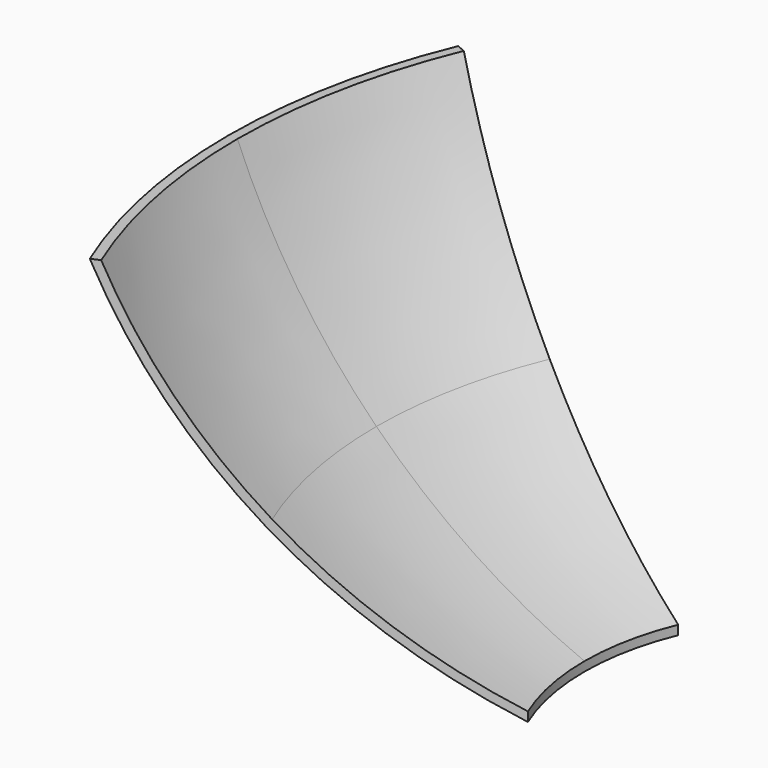
from build123d import *

# Parameters (mm, degrees)
F1_ANGLE = 22.5


with BuildPart() as f1:
    # F0 (on Front) → F1 (revolve)
    with BuildSketch(Plane.XZ):
        with BuildLine():
            Line((-351.074222, -145.419704), (-346.454825, -143.506287))
            Line((-346.454825, -143.506287), (-351.860691, -143.506287))
            ThreePointArc((-351.860691, -143.506287), (-351.468759, -144.463531), (-351.074222, -145.419704))
        make_face()
        with BuildLine():
            ThreePointArc((-265.165043, -265.165043), (-311.801105, -208.338837), (-346.454825, -143.506287))
            Line((-346.454825, -143.506287), (-351.074222, -145.419704))
            ThreePointArc((-351.074222, -145.419704), (-315.958453, -211.116689), (-268.700577, -268.700577))
            Line((-268.700577, -268.700577), (-265.165043, -265.165043))
        make_face()
        with BuildLine():
            ThreePointArc((-143.506287, -346.454825), (-208.338837, -311.801105), (-265.165043, -265.165043))
            Line((-265.165043, -265.165043), (-268.700577, -268.700577))
            ThreePointArc((-268.700577, -268.700577), (-211.116689, -315.958453), (-145.419704, -351.074222))
            Line((-145.419704, -351.074222), (-143.506287, -346.454825))
        make_face()
        with BuildLine():
            Line((-143.506287, -351.860691), (-143.506287, -346.454825))
            Line((-143.506287, -346.454825), (-145.419704, -351.074222))
            ThreePointArc((-145.419704, -351.074222), (-144.463531, -351.468759), (-143.506287, -351.860691))
        make_face()
    revolve(axis=Axis((0, 0, -187.5), (0, 0, -1)), revolution_arc=F1_ANGLE)

    # F2: F1 across face


with BuildPart() as f1_1:
    add(f1.part)
    add(f1.part.mirror(Plane(origin=(-260.03738, 0, -260.037381), x_dir=(1, 0, 0), z_dir=(0, -1, 0))))


solid = f1_1.part
